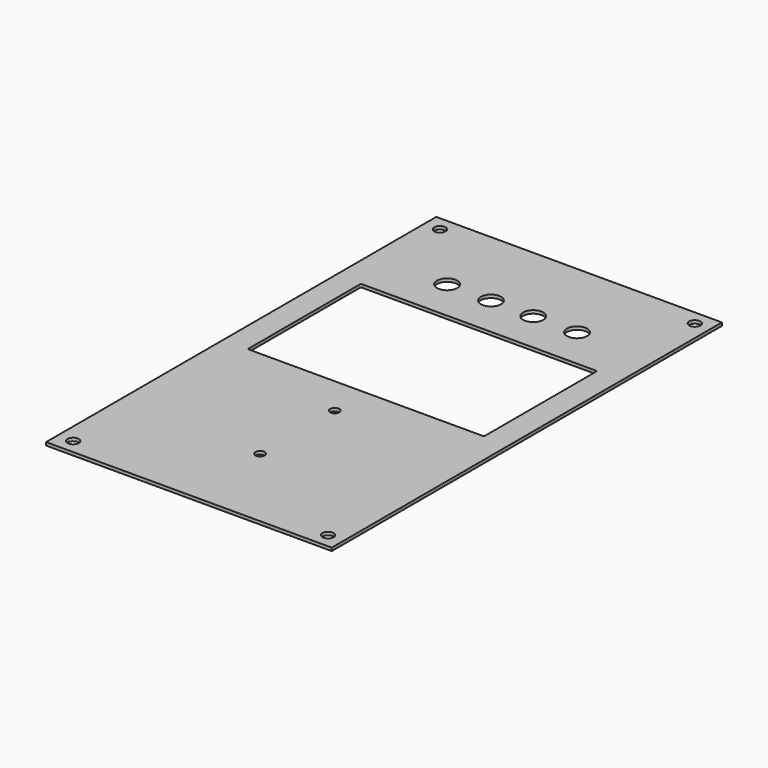
from build123d import *

# Parameters (mm, degrees)
F0_W     = 91.9
F0_H     = 156.9
F0_R     = 1.8
F1_DEPTH = 1
F2_R     = 3.25
F2_R_2   = 1.5
F3_DEPTH = 2


with BuildPart() as f1:
    # F0 (on Top) → F1 (new body)
    with BuildSketch(Plane.XY):
        Rectangle(F0_W, F0_H)
        with Locations((-41, -73.75)):
            Circle(F0_R, mode=Mode.SUBTRACT)
        with Locations((41, -73.75)):
            Circle(F0_R, mode=Mode.SUBTRACT)
        with Locations((-41, 73.75)):
            Circle(F0_R, mode=Mode.SUBTRACT)
        with Locations((41, 73.75)):
            Circle(F0_R, mode=Mode.SUBTRACT)
    extrude(amount=F1_DEPTH)

    # F2 (on face) → F3 (cut)
    with BuildSketch(Plane.XY.offset(1)):
        with Locations((20.9, 51.5)):
            Circle(F2_R)
        with Locations((-20.9, 51.5)):
            Circle(F2_R)
        with Locations((6.8, 51.5)):
            Circle(F2_R)
        with Locations((-6.8, 51.5)):
            Circle(F2_R)
        with BuildLine():
            Line((-37.5, -7.299998), (37.5, -7.299998))
            ThreePointArc((37.5, -7.299998), (37.853553, -7.153552), (38, -6.799998))
            Line((38, -6.799998), (38, 37.700002))
            ThreePointArc((38, 37.700002), (37.853553, 38.053555), (37.5, 38.200002))
            Line((37.5, 38.200002), (-37.5, 38.200002))
            ThreePointArc((-37.5, 38.200002), (-37.853553, 38.053555), (-38, 37.700002))
            Line((-38, 37.700002), (-38, -6.799998))
            ThreePointArc((-38, -6.799998), (-37.853553, -7.153552), (-37.5, -7.299998))
        make_face()
        with Locations((0, -19.799998)):
            Circle(F2_R_2)
        with Locations((0, -49.799998)):
            Circle(F2_R_2)
    extrude(amount=-F3_DEPTH, mode=Mode.SUBTRACT)


solid = f1.part
